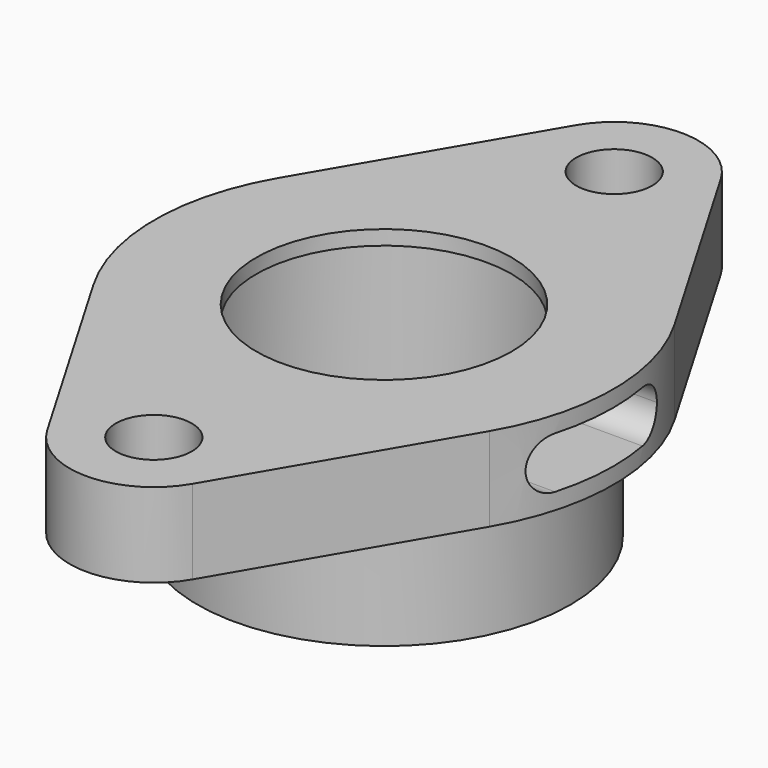
from build123d import *

# Parameters (mm, degrees)
F0_R     = 7.112
F1_DEPTH = 15.748
F2_R     = 34.925
F3_DEPTH = 22.352
F4_R     = 23.876
F5_DEPTH = 38.101
F6_W     = 28.575
F6_H     = 32.004
F9_DEPTH = 42.927


with BuildPart() as f1:
    # F0 (on Top) → F1 (new body)
    with BuildSketch(Plane.XY):
        with BuildLine():
            ThreePointArc((13.59501, -61.796283), (15.508969, -51.114616), (10.058576, -41.730882))
            ThreePointArc((10.058576, -41.730882), (25.605333, -34.452988), (37.057366, -21.665481))
            ThreePointArc((37.057366, -21.665481), (42.926, 0), (37.057366, 21.665481))
            ThreePointArc((37.057366, 21.665481), (25.605333, 34.452988), (10.058576, 41.730882))
            ThreePointArc((10.058576, 41.730882), (15.508969, 51.114616), (13.59501, 61.796283))
            ThreePointArc((13.59501, 61.796283), (0, 69.596), (-13.59501, 61.796283))
            ThreePointArc((-13.59501, 61.796283), (-15.508969, 51.114616), (-10.058576, 41.730882))
            ThreePointArc((-10.058576, 41.730882), (-25.605333, 34.452988), (-37.057366, 21.665481))
            ThreePointArc((-37.057366, 21.665481), (-42.926, 0), (-37.057366, -21.665481))
            ThreePointArc((-37.057366, -21.665481), (-25.605333, -34.452988), (-10.058576, -41.730882))
            ThreePointArc((-10.058576, -41.730882), (-15.508969, -51.114616), (-13.59501, -61.796283))
            ThreePointArc((-13.59501, -61.796283), (0, -69.596), (13.59501, -61.796283))
        make_face()
        with Locations((0, -53.848)):
            Circle(F0_R, mode=Mode.SUBTRACT)
        with Locations((0, 53.848)):
            Circle(F0_R, mode=Mode.SUBTRACT)
        with BuildLine():
            ThreePointArc((37.057366, -21.665481), (25.605333, -34.452988), (10.058576, -41.730882))
            ThreePointArc((10.058576, -41.730882), (15.508969, -51.114616), (13.59501, -61.796283))
            Line((13.59501, -61.796283), (37.057366, -21.665481))
        make_face()
        with BuildLine():
            ThreePointArc((10.058576, 41.730882), (25.605333, 34.452988), (37.057366, 21.665481))
            Line((37.057366, 21.665481), (13.59501, 61.796283))
            ThreePointArc((13.59501, 61.796283), (15.508969, 51.114616), (10.058576, 41.730882))
        make_face()
        with BuildLine():
            Line((-37.057366, -21.665481), (-13.59501, -61.796283))
            ThreePointArc((-13.59501, -61.796283), (-15.508969, -51.114616), (-10.058576, -41.730882))
            ThreePointArc((-10.058576, -41.730882), (-25.605333, -34.452988), (-37.057366, -21.665481))
        make_face()
        with BuildLine():
            ThreePointArc((-10.058576, 41.730882), (-15.508969, 51.114616), (-13.59501, 61.796283))
            Line((-13.59501, 61.796283), (-37.057366, 21.665481))
            ThreePointArc((-37.057366, 21.665481), (-25.605333, 34.452988), (-10.058576, 41.730882))
        make_face()
    extrude(amount=F1_DEPTH)

    # F2 (on face) → F3 (join)
    with BuildSketch(Plane(origin=(0, 0, 0), x_dir=(1, 0, 0), z_dir=(0, 0, -1))):
        Circle(F2_R)
    extrude(amount=F3_DEPTH)

    # F4 (on face) → F5 (cut, through all)
    with BuildSketch(Plane.XY.offset(15.748)):
        Circle(F4_R)
    extrude(amount=-F5_DEPTH, mode=Mode.SUBTRACT)

    # F6 (on Right) → F7 (revolve, cut)
    with BuildSketch(Plane.YZ):
        with Locations((14.2875, -2.977115)):
            Rectangle(F6_W, F6_H)
    revolve(axis=Axis((0, 0, 5.759722), (0, 0, -1)), mode=Mode.SUBTRACT)

    # F8 (on Right) → F9 (cut, through all)
    with BuildSketch(Plane.YZ):
        with BuildLine():
            ThreePointArc((7.67797, 3.048), (11.090467, 4.461503), (12.50397, 7.874))
            ThreePointArc((12.50397, 7.874), (11.090467, 11.286497), (7.67797, 12.7))
            ThreePointArc((7.67797, 12.7), (2.85197, 7.874), (7.67797, 3.048))
        make_face()
        with BuildLine():
            ThreePointArc((7.67797, 3.048), (2.85197, 7.874), (7.67797, 12.7))
            Line((7.67797, 12.7), (-11.62603, 12.7))
            ThreePointArc((-11.62603, 12.7), (-8.213533, 11.286497), (-6.80003, 7.874))
            ThreePointArc((-6.80003, 7.874), (-8.213533, 4.461503), (-11.62603, 3.048))
            Line((-11.62603, 3.048), (7.67797, 3.048))
        make_face()
        with BuildLine():
            ThreePointArc((-6.80003, 7.874), (-8.213533, 11.286497), (-11.62603, 12.7))
            ThreePointArc((-11.62603, 12.7), (-16.45203, 7.874), (-11.62603, 3.048))
            ThreePointArc((-11.62603, 3.048), (-8.213533, 4.461503), (-6.80003, 7.874))
        make_face()
    extrude(amount=F9_DEPTH, mode=Mode.SUBTRACT)


solid = f1.part
